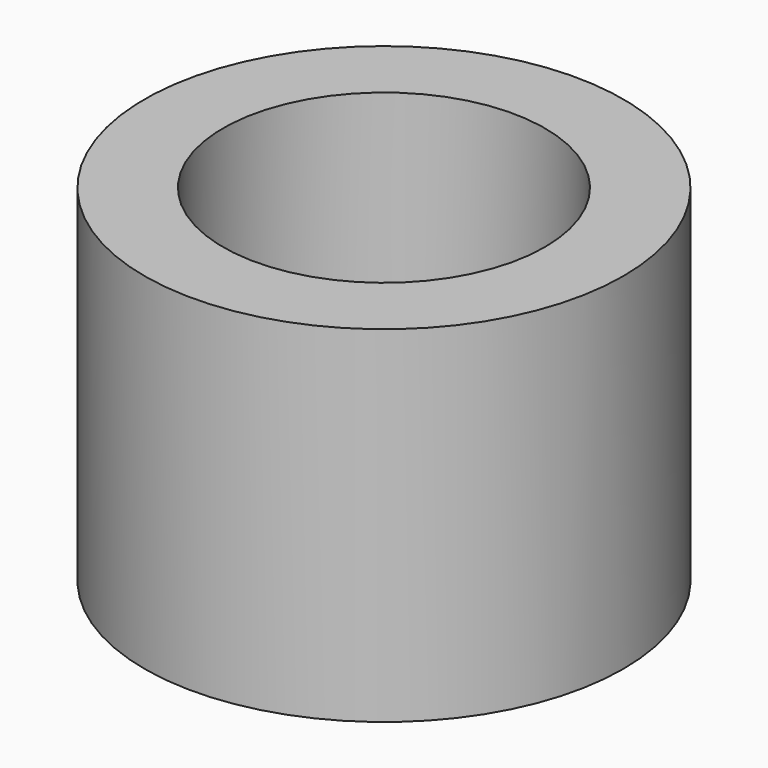
from build123d import *

# Parameters (mm, degrees)
F0_R     = 9
F0_R_2   = 6.05
F0_R_3   = 2.65
F1_DEPTH = 5
F2_DEPTH = 13


with BuildPart() as f1:
    # F0 (on Top) → F1 (new body)
    with BuildSketch(Plane.XY):
        Circle(F0_R)
        Circle(F0_R_2, mode=Mode.SUBTRACT)
        Circle(F0_R)
        Circle(F0_R_2, mode=Mode.SUBTRACT)
        Circle(F0_R_2)
        Circle(F0_R_3, mode=Mode.SUBTRACT)
    extrude(amount=F1_DEPTH)

    # F0 (on Top) → F2 (join)
    with BuildSketch(Plane.XY):
        Circle(F0_R)
        Circle(F0_R_2, mode=Mode.SUBTRACT)
    extrude(amount=F2_DEPTH)


solid = f1.part
